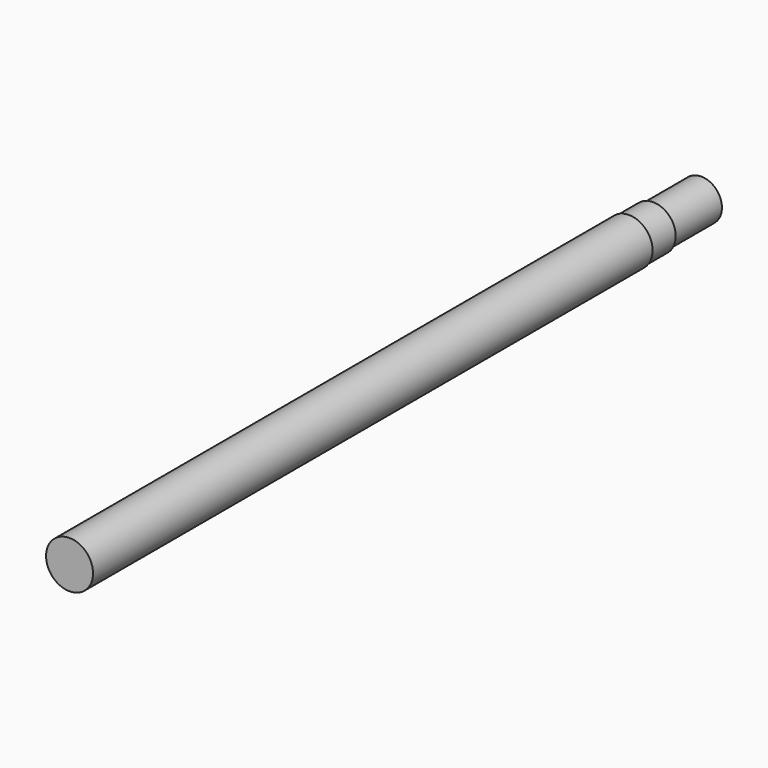
from build123d import *

# Parameters (mm, degrees)
F0_R     = 62.5
F1_DEPTH = 1050
F2_R     = 62.5
F2_R_2   = 60
F3_DEPTH = 240
F2_R_3   = 55
F4_DEPTH = 160


with BuildPart() as f1:
    # F0 (on Front) → F1 (new body, symmetric)
    with BuildSketch(Plane.XZ):
        Circle(F0_R)
    extrude(amount=F1_DEPTH, both=True)

    # F2 (on face) → F3 (cut)
    with BuildSketch(Plane(origin=(0, 1050, 0), x_dir=(-1, 0, 0), z_dir=(0, 1, 0))):
        Circle(F2_R)
        Circle(F2_R_2, mode=Mode.SUBTRACT)
    extrude(amount=-F3_DEPTH, mode=Mode.SUBTRACT)

    # F2 (on face) → F4 (cut)
    with BuildSketch(Plane(origin=(0, 1050, 0), x_dir=(-1, 0, 0), z_dir=(0, 1, 0))):
        Circle(F2_R_2)
        Circle(F2_R_3, mode=Mode.SUBTRACT)
    extrude(amount=-F4_DEPTH, mode=Mode.SUBTRACT)


solid = f1.part
